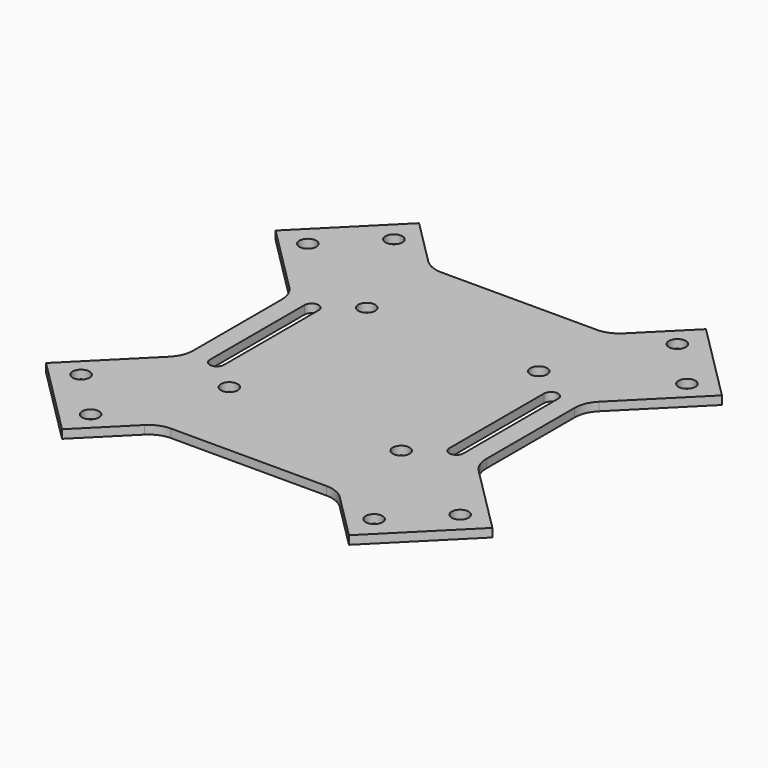
from build123d import *

# Parameters (mm, degrees)
F0_R     = 1.5
F1_DEPTH = 1.5
F2_R     = 5


with BuildPart() as f1:
    # F0 (on Top) → F1 (new body)
    with BuildSketch(Plane.XY):
        Polygon((-25.455844, 39.59798), (-39.59798, 25.455844), (-26, 11.857864), (-26, -11.857864), (-39.59798, -25.455844), (-25.455844, -39.59798), (-15.857864, -30), (15.857864, -30), (25.455844, -39.59798), (39.59798, -25.455844), (26, -11.857864), (26, 11.857864), (39.59798, 25.455844), (25.455844, 39.59798), (15.857864, 30), (-15.857864, 30), align=None)
        with Locations((-25.149495, -33.634776)):
            Circle(F0_R, mode=Mode.SUBTRACT)
        with Locations((-33.634776, -25.149495)):
            Circle(F0_R, mode=Mode.SUBTRACT)
        with Locations((-15.25, -15.25)):
            Circle(F0_R, mode=Mode.SUBTRACT)
        with Locations((25.149495, -33.634776)):
            Circle(F0_R, mode=Mode.SUBTRACT)
        with Locations((33.634776, -25.149495)):
            Circle(F0_R, mode=Mode.SUBTRACT)
        with Locations((15.25, -15.25)):
            Circle(F0_R, mode=Mode.SUBTRACT)
        with BuildLine():
            ThreePointArc((-22.5, 10.5), (-21.25, 11.75), (-20, 10.5))
            Line((-20, 10.5), (-20, -10.5))
            ThreePointArc((-20, -10.5), (-21.25, -11.75), (-22.5, -10.5))
            Line((-22.5, -10.5), (-22.5, 10.5))
        make_face(mode=Mode.SUBTRACT)
        with Locations((-15.25, 15.25)):
            Circle(F0_R, mode=Mode.SUBTRACT)
        with Locations((-33.634776, 25.149495)):
            Circle(F0_R, mode=Mode.SUBTRACT)
        with Locations((-25.149495, 33.634776)):
            Circle(F0_R, mode=Mode.SUBTRACT)
        with Locations((15.25, 15.25)):
            Circle(F0_R, mode=Mode.SUBTRACT)
        with BuildLine():
            Line((20, -10.5), (20, 10.5))
            ThreePointArc((20, 10.5), (21.25, 11.75), (22.5, 10.5))
            Line((22.5, 10.5), (22.5, -10.5))
            ThreePointArc((22.5, -10.5), (21.25, -11.75), (20, -10.5))
        make_face(mode=Mode.SUBTRACT)
        with Locations((33.634776, 25.149495)):
            Circle(F0_R, mode=Mode.SUBTRACT)
        with Locations((25.149495, 33.634776)):
            Circle(F0_R, mode=Mode.SUBTRACT)
    extrude(amount=F1_DEPTH)

    # F2
    f2_edges = [f1.edges().sort_by_distance(p)[0] for p in [
        (-15.857864, 30, 0.75),
        (15.857864, 30, 0.75),
        (26, 11.857864, 0.75),
        (26, -11.857864, 0.75),
        (-26, -11.857864, 0.75),
        (-26, 11.857864, 0.75),
        (-15.857864, -30, 0.75),
        (15.857864, -30, 0.75),
    ]]
    fillet(f2_edges, radius=F2_R)


solid = f1.part
